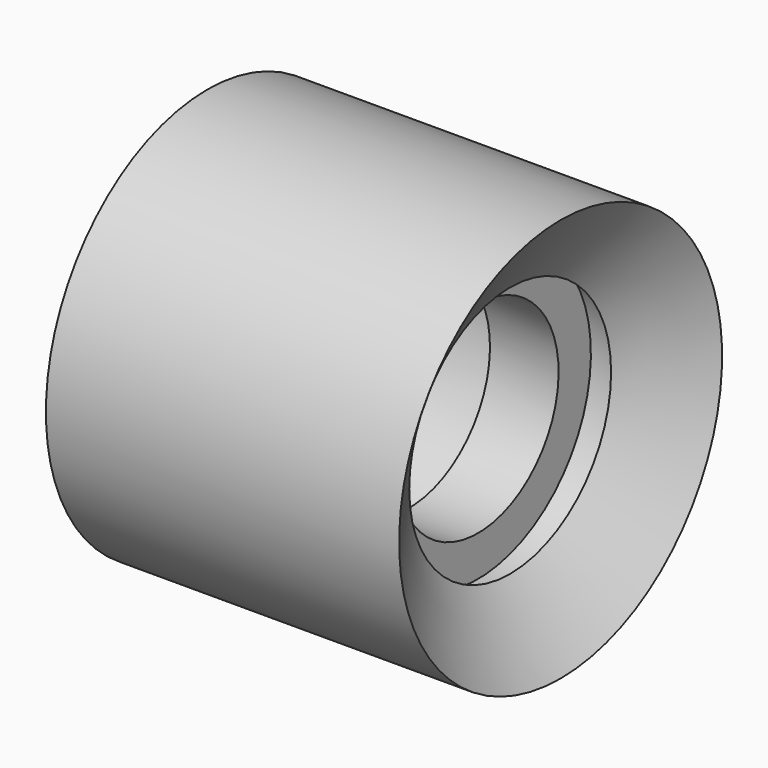
from build123d import *


with BuildPart() as f1:
    # F0 (on Front) → F1 (revolve)
    with BuildSketch(Plane.XZ):
        with BuildLine():
            Line((3.200006, 20.000023), (3.200006, 8))
            Line((3.200006, 8), (7.200006, 8))
            ThreePointArc((7.200006, 8), (8.200006, 9), (9.200006, 8))
            Line((9.200006, 8), (13.200006, 8))
            Line((13.200006, 8), (13.200006, 15))
            Line((13.200006, 15), (23.2, 15))
            Line((23.2, 15), (23.2, 10))
            Line((23.2, 10), (30, 10))
            Line((30, 10), (30, 14))
            Line((30, 14), (33.2, 14))
            Line((33.2, 14), (33.2, 12.5))
            Line((33.2, 12.5), (38.200006, 20.000023))
            Line((38.200006, 20.000023), (3.200006, 20.000023))
        make_face()
    revolve(axis=Axis((26.047173, 0, 0), (-1, 0, 0)))


solid = f1.part
